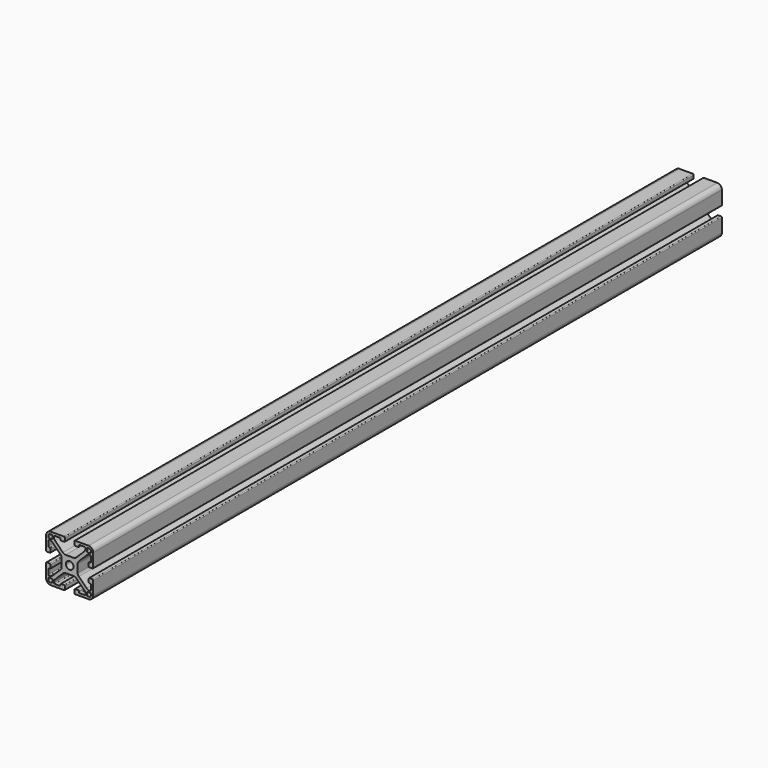
from build123d import *

# Parameters (mm, degrees)
F1_DEPTH = 500


with BuildPart() as f1:
    # F0 (on Front) → F1 (new body)
    with BuildSketch(Plane.XZ):
        with BuildLine():
            ThreePointArc((0, -2.45), (-1.732412, -1.732412), (-2.45, 0))
            Line((-2.45, 0), (-5.1, 0))
            Line((-5.1, 0), (-5.1, -2.508831))
            ThreePointArc((-5.1, -2.508831), (-5.290301, -3.46554), (-5.832233, -4.276598))
            Line((-5.832233, -4.276598), (-10.823402, -9.267767))
            ThreePointArc((-10.823402, -9.267767), (-11.63446, -9.809699), (-12.591169, -10))
            Line((-12.591169, -10), (-13, -10))
            ThreePointArc((-13, -10), (-13.353553, -9.853553), (-13.5, -9.5))
            Line((-13.5, -9.5), (-13.5, -6.4))
            ThreePointArc((-13.5, -6.4), (-13.353553, -6.046447), (-13, -5.9))
            Line((-13, -5.9), (-12.6, -5.9))
            ThreePointArc((-12.6, -5.9), (-12.246447, -5.753553), (-12.1, -5.4))
            Line((-12.1, -5.4), (-12.1, -3.5))
            ThreePointArc((-12.1, -3.5), (-12.246447, -3.146447), (-12.6, -3))
            Line((-12.6, -3), (-14.5, -3))
            ThreePointArc((-14.5, -3), (-14.853553, -3.146447), (-15, -3.5))
            Line((-15, -3.5), (-15, -12))
            ThreePointArc((-15, -12), (-14.12132, -14.12132), (-12, -15))
            Line((-12, -15), (-3.5, -15))
            ThreePointArc((-3.5, -15), (-3.146447, -14.853553), (-3, -14.5))
            Line((-3, -14.5), (-3, -12.6))
            ThreePointArc((-3, -12.6), (-3.146447, -12.246447), (-3.5, -12.1))
            Line((-3.5, -12.1), (-5.4, -12.1))
            ThreePointArc((-5.4, -12.1), (-5.753553, -12.246447), (-5.9, -12.6))
            Line((-5.9, -12.6), (-5.9, -13))
            ThreePointArc((-5.9, -13), (-6.046447, -13.353553), (-6.4, -13.5))
            Line((-6.4, -13.5), (-9.5, -13.5))
            ThreePointArc((-9.5, -13.5), (-9.853553, -13.353553), (-10, -13))
            Line((-10, -13), (-10, -12.591169))
            ThreePointArc((-10, -12.591169), (-9.809699, -11.63446), (-9.267767, -10.823402))
            Line((-9.267767, -10.823402), (-4.276598, -5.832233))
            ThreePointArc((-4.276598, -5.832233), (-3.46554, -5.290301), (-2.508831, -5.1))
            Line((-2.508831, -5.1), (0, -5.1))
            Line((0, -5.1), (0, -2.45))
        make_face()
        with BuildLine():
            Line((-11.5, -13.5), (-12.5, -13.5))
            ThreePointArc((-12.5, -13.5), (-13.207107, -13.207107), (-13.5, -12.5))
            Line((-13.5, -12.5), (-13.5, -11.5))
            ThreePointArc((-13.5, -11.5), (-13.353553, -11.146447), (-13, -11))
            Line((-13, -11), (-11.5, -11))
            ThreePointArc((-11.5, -11), (-11.146447, -11.146447), (-11, -11.5))
            Line((-11, -11.5), (-11, -13))
            ThreePointArc((-11, -13), (-11.146447, -13.353553), (-11.5, -13.5))
        make_face(mode=Mode.SUBTRACT)
    extrude(amount=F1_DEPTH)

    # F2: F1 across plane


with BuildPart() as f1_1:
    add(f1.part)
    add(f1.part.mirror(Plane.YZ))

    # F3: F1 across plane


with BuildPart() as f1_2:
    add(f1_1.part)
    add(f1_1.part.mirror(Plane.XY))


solid = f1_2.part
